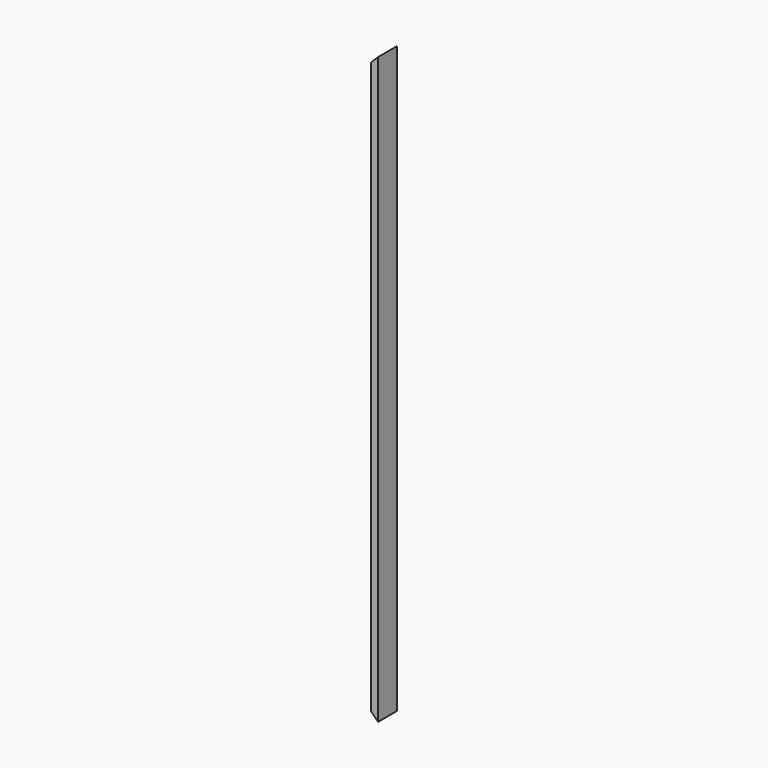
from build123d import *

# Parameters (mm, degrees)
F0_W     = 19.05
F0_H     = 63.5
F1_DEPTH = 1562.1
F3_DEPTH = 63.501
F5_DEPTH = 63.501


with BuildPart() as f1:
    # F0 (on Top) → F1 (new body)
    with BuildSketch(Plane.XY):
        with Locations((9.525, 31.75)):
            Rectangle(F0_W, F0_H)
    extrude(amount=F1_DEPTH)

    # F2 (on face) → F3 (cut, through all)
    with BuildSketch(Plane(origin=(0, 63.5, 0), x_dir=(-1, 0, 0), z_dir=(0, 1, 0))):
        Polygon((0, 19.05), (-19.05, 0), (0, 0), align=None)
    extrude(amount=-F3_DEPTH, mode=Mode.SUBTRACT)

    # F4 (on face) → F5 (cut, through all)
    with BuildSketch(Plane(origin=(0, 63.5, 0), x_dir=(-1, 0, 0), z_dir=(0, 1, 0))):
        Polygon((0, 1562.1), (-19.05, 1562.1), (0, 1543.05), align=None)
    extrude(amount=-F5_DEPTH, mode=Mode.SUBTRACT)


solid = f1.part
